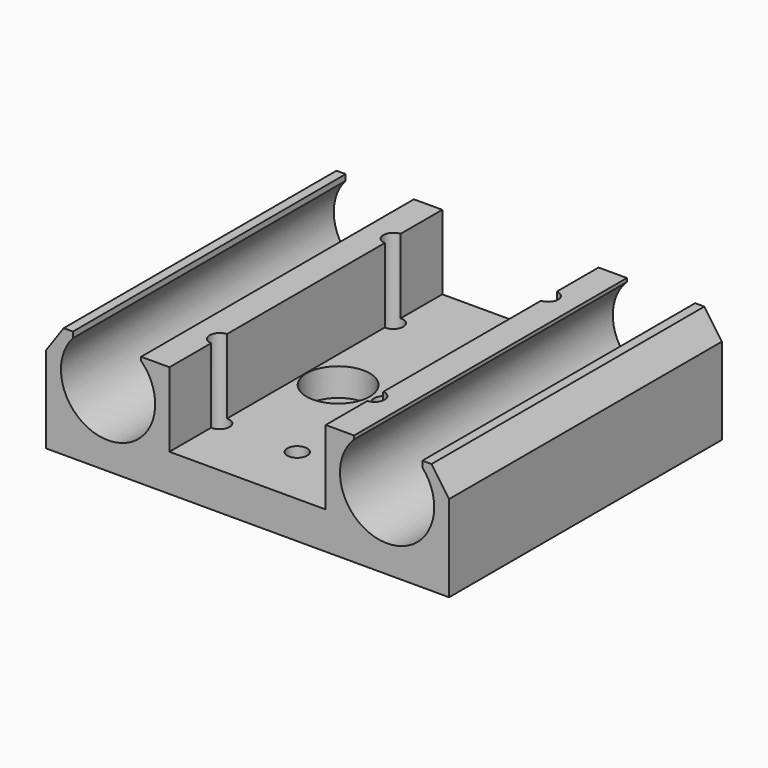
from build123d import *

# Parameters (mm, degrees)
PAD_DEPTH            = 27.5
SKETCH001_R          = 1.6
POCKET_DEPTH         = 12.001
POCKET_DEPTH_BACK    = -6.001
SKETCH002_R          = 5.1
POCKET001_DEPTH      = 10.5
SKETCH004_W          = 11
SKETCH004_H          = 11
POCKET003_DEPTH      = 27.501
POCKET003_DEPTH_BACK = -27.501
POCKET004_DEPTH      = 2.5


with BuildPart() as part:
    # Sketch → Pad (new body, symmetric)
    with BuildSketch(Plane.XZ):
        with BuildLine():
            Line((-29.664762, 6), (-27.164762, 6))
            ThreePointArc((-27.164762, 6), (-22.5, -7.6), (-17.835238, 6))
            Line((-17.835238, 6), (-12.6, 6))
            Line((-12.6, -6), (-12.6, 6))
            Line((12.6, -6), (-12.6, -6))
            Line((12.6, 6), (12.6, -6))
            Line((12.6, 6), (17.835238, 6))
            ThreePointArc((17.835238, 6), (22.5, -7.6), (27.164762, 6))
            Line((27.164762, 6), (29.664762, 6))
            Line((29.664762, 6), (32.5, 1.95086))
            Line((32.5, 1.95086), (32.5, -12))
            Line((32.5, -12), (-32.5, -12))
            Line((-32.5, -12), (-32.5, 1.95086))
            Line((-32.5, 1.95086), (-29.664762, 6))
        make_face()
    extrude(amount=PAD_DEPTH, both=True)

    # Sketch001 → Pocket (cut, two sides)
    with BuildSketch(Plane.XY) as pocket_sk:
        with Locations((-12.5, 17.5)):
            Circle(SKETCH001_R)
        with Locations((-12.5, -17.5)):
            Circle(SKETCH001_R)
        with Locations((12.5, 17.5)):
            Circle(SKETCH001_R)
        with Locations((12.5, -17.5)):
            Circle(SKETCH001_R)
        with Locations((0, 17.5)):
            Circle(SKETCH001_R)
        with Locations((0, -17.5)):
            Circle(SKETCH001_R)
        Circle(SKETCH001_R)
    extrude(amount=-POCKET_DEPTH, mode=Mode.SUBTRACT)
    extrude(pocket_sk.sketch, amount=-POCKET_DEPTH_BACK, mode=Mode.SUBTRACT)

    # Sketch002 → Pocket001 (cut)
    with BuildSketch(Plane.XY):
        with Locations((-7.4, 0)):
            Circle(SKETCH002_R)
        with Locations((7.4, 0)):
            Circle(SKETCH002_R)
    extrude(amount=-POCKET001_DEPTH, mode=Mode.SUBTRACT)

    # Sketch004 → Pocket003 (cut, two sides)
    with BuildSketch(Plane.XZ) as pocket003_sk:
        with Locations((-22.677406, 5.5)):
            Rectangle(SKETCH004_W, SKETCH004_H)
        with Locations((22.677406, 5.5)):
            Rectangle(SKETCH004_W, SKETCH004_H)
    extrude(amount=-POCKET003_DEPTH, mode=Mode.SUBTRACT)
    extrude(pocket003_sk.sketch, amount=-POCKET003_DEPTH_BACK, mode=Mode.SUBTRACT)

    # Sketch005 (on DatumPlane) → Pocket004 (cut)
    with BuildSketch(Plane.XY.offset(-12)):
        Polygon((-9.75, 15.912287), (-9.75, 19.087713), (-12.5, 20.675426), (-15.25, 19.087713), (-15.25, 15.912287), (-12.5, 14.324574), align=None)
        Polygon((2.75, 15.912287), (2.75, 19.087713), (0, 20.675426), (-2.75, 19.087713), (-2.75, 15.912287), (0, 14.324574), align=None)
        Polygon((15.25, 15.912287), (15.25, 19.087713), (12.5, 20.675426), (9.75, 19.087713), (9.75, 15.912287), (12.5, 14.324574), align=None)
        Polygon((2.75, -1.587713), (2.75, 1.587713), (0, 3.175426), (-2.75, 1.587713), (-2.75, -1.587713), (0, -3.175426), align=None)
        Polygon((-9.75, -15.912287), (-12.5, -14.324574), (-15.25, -15.912287), (-15.25, -19.087713), (-12.5, -20.675426), (-9.75, -19.087713), align=None)
        Polygon((2.75, -19.087713), (2.75, -15.912287), (0, -14.324574), (-2.75, -15.912287), (-2.75, -19.087713), (0, -20.675426), align=None)
        Polygon((15.25, -19.087713), (15.25, -15.912287), (12.5, -14.324574), (9.75, -15.912287), (9.75, -19.087713), (12.5, -20.675426), align=None)
    extrude(amount=POCKET004_DEPTH, mode=Mode.SUBTRACT)


solid = part.part
